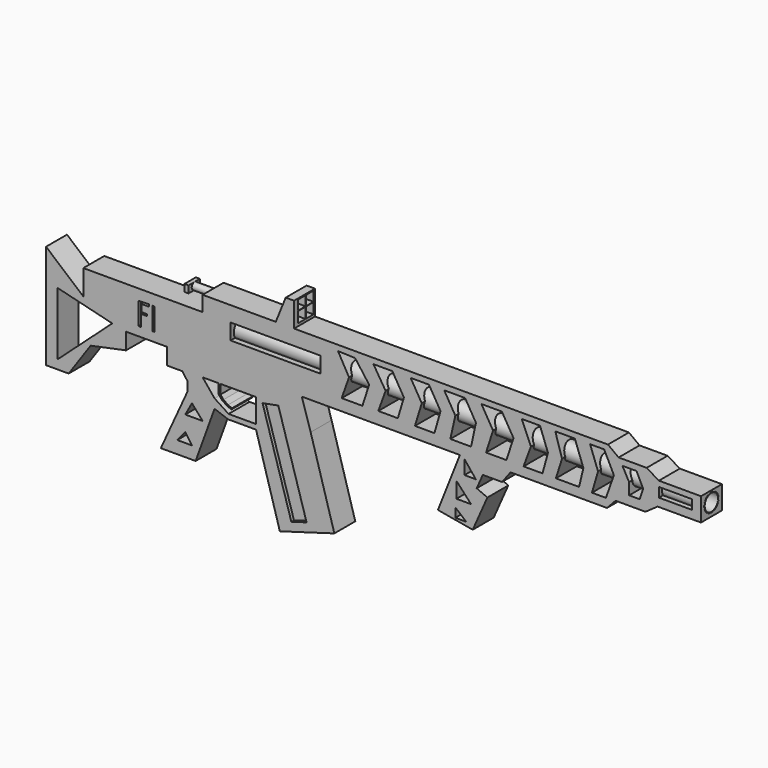
from build123d import *

# Parameters (mm, degrees)
F0_W      = 27.8707845137
F0_H      = 4.9295239151
F0_W_2    = 10.294675827
F0_H_2    = 2.9387567192
F1_DEPTH  = 7.62
F2_R      = 2.7869001014
F3_DEPTH  = 146.304
F4_R      = 2.7215920506
F5_DEPTH  = 146.812
F6_R      = 2.5871101407
F7_DEPTH  = 146.05
F8_W      = 12.5134121627
F8_H      = 7.62
F9_DEPTH  = 7.62
F11_DEPTH = 25.4
F12_W     = 2.8490580153
F12_H     = 3.3432543278
F12_W_2   = 2.8912199475
F13_DEPTH = 25.4
F15_DEPTH = 7.62
F16_R     = 1.0913724266
F17_DEPTH = 6.096
F18_W     = 4.4081342639
F18_H     = 2.1922178566
F19_DEPTH = 1.27
F20_R     = 0.7413997474
F20_W     = 1.235594973
F20_H     = 1.1558774859
F20_W_2   = 27.8707845137
F20_H_2   = 4.9295239151
F20_W_3   = 10.294675827
F20_H_3   = 2.9387567192
F21_DEPTH = 0.508
F22_W     = 0.6200680509
F22_H     = 7.0171430707
F23_DEPTH = 1.016
F25_DEPTH = 1.016
F27_DEPTH = 25.4


with BuildPart() as f1:
    # F0 (on Front) → F1 (new body)
    with BuildSketch(Plane.XZ):
        Polygon((-48.6316718161, 43.5125492513), (-48.6316718161, 33.2743003964), (-48.6316718161, 11.0914334655), (-41.6165776551, 11.0914334655), (-34.7910784185, 20.9504850209), (-23.7944442779, 23.225652054), (-23.7944442779, 28.3447746187), (-11.0914334655, 28.3447746187), (-11.0914334655, 23.225652054), (-6.3515044749, 23.225652054), (-4.6451305971, 20.9504850209), (-4.6451305971, 18.2961262763), (-12.987405993, 0), (-2.1803670097, 0), (3.6971447989, 16.2105560303), (7.9157597862, 14.68099965), (16.5897514671, 14.68099965), (23.984041065, -10.7122398913), (40.9133545003, -5.7825716609), (33.5538682998, 19.4911471348), (30.8095384389, 28.3447746187), (79.9152031541, 28.3447746187), (73.0896964669, 11.0914334655), (83.8967487216, 9.1954618692), (88.4470716119, 19.4911471348), (85.1451337201, 20.9504850209), (87.0329234017, 25.2218496862), (92.9974019527, 25.2218496862), (95.6517606974, 28.7239700556), (125.6081163883, 28.7239700556), (128.2624751329, 31.5679274499), (137.5527381897, 31.5679274499), (141.3446813822, 34.2222861946), (154.8060774803, 34.2222861946), (154.8060774803, 39.3414124846), (154.8060774803, 41.4269827306), (141.7238712311, 41.4269827306), (137.9319280386, 43.7021441758), (129.2104572058, 43.7021441758), (125.9241108265, 46.1669079959), (0, 46.1669079959), (0, 41.4269827306), (-37.0662435889, 41.4269827306), (-37.0662435889, 33.6534976959), align=None)
        Polygon((-7.8682806343, 3.8867425174), (-5.4035177454, 6.9202966988), (-3.3179481979, 3.8867425174), align=None, mode=Mode.SUBTRACT)
        Polygon((-5.4035177454, 11.6602256894), (-3.3179481979, 15.4521688819), (0, 11.6602256894), align=None, mode=Mode.SUBTRACT)
        Polygon((78.4932225943, 10.7112526894), (78.4932225943, 13.5561972857), (81.9070413709, 10.7112526894), align=None, mode=Mode.SUBTRACT)
        Polygon((8.0578783527, 16.2105560303), (3.6971447989, 19.0545152873), (0, 23.6048474908), (6.3515058719, 23.6048474908), (7.0829950273, 23.6048474908), (16.5897514671, 23.6048474908), (16.5897514671, 16.2105560303), align=None, mode=Mode.SUBTRACT)
        with Locations((22.6184898056, 38.9622170478)):
            Rectangle(F0_W, F0_H, mode=Mode.SUBTRACT)
        Polygon((45.4649440944, 38.3934266865), (42.0521944761, 44.4605313241), (47.360919416, 44.2709363997), (51.7216511071, 38.3934266865), (49.6360845864, 31.9471210241), (43.189778924, 31.9471210241), align=None, mode=Mode.SUBTRACT)
        Polygon((78.8340419531, 16.0209592432), (78.8340419531, 20.9504850209), (83.3843797445, 16.0209592432), align=None, mode=Mode.SUBTRACT)
        Polygon((81.3372582197, 23.3134049922), (81.3372582197, 27.6705306023), (84.8564729095, 23.3134049922), align=None, mode=Mode.SUBTRACT)
        Polygon((56.8407736719, 38.3934266865), (53.0488342047, 44.4605313241), (58.9263439178, 44.4605313241), (62.5286847353, 38.3934266865), (60.6327168643, 32.1367196739), (54.5656085014, 32.1367196739), align=None, mode=Mode.SUBTRACT)
        Polygon((68.0683460314, 38.6431169569), (64.6142587066, 44.4605313241), (70.3021734953, 44.4605313241), (73.9045143127, 38.3934266865), (72.0085501671, 31.7575223744), (65.9414380789, 31.7575223744), align=None, mode=Mode.SUBTRACT)
        Polygon((78.496191594, 38.6431202276), (75.0421062112, 44.4605313241), (81.5239570366, 44.4605313241), (84.9011540413, 38.7726165354), (83.3843797445, 31.7575223744), (76.9380778074, 31.7575223744), align=None, mode=Mode.SUBTRACT)
        Polygon((90.2098715305, 38.3934266865), (86.6075307131, 44.4605313241), (92.9573206473, 44.4605313241), (96.5596614648, 38.3934266865), (94.3810045719, 31.6593867384), (88.0312146377, 31.6593867384), align=None, mode=Mode.SUBTRACT)
        Polygon((105.5672466755, 31.6593867384), (99.6897369623, 31.6593867384), (101.9648984075, 37.8246344626), (99.1209372878, 44.4605313241), (104.8088520765, 44.4605313241), (107.2736233473, 37.8246344626), align=None, mode=Mode.SUBTRACT)
        Polygon((111.6343587637, 37.6350358129), (109.5487847924, 44.4605313241), (115.61588943, 44.4605313241), (118.2702556252, 37.2558422387), (116.9430762529, 31.6593867384), (109.7383797169, 31.6593867384), align=None, mode=Mode.SUBTRACT)
        Polygon((122.8205934167, 37.8246344626), (120.3558221459, 44.4605313241), (124.7165575624, 44.4605313241), (127.7501136065, 38.3934266865), (125.2853572369, 31.3783288002), (120.9246143699, 31.3783288002), align=None, mode=Mode.SUBTRACT)
        Polygon((132.4900388718, 38.014229387), (130.4044723511, 41.8061725795), (134.7652077675, 41.8061725795), (136.8507742882, 37.6350358129), (135.7763846006, 34.4118848443), (132.4900388718, 34.4118848443), align=None, mode=Mode.SUBTRACT)
        with Locations((146.8712091446, 38.2512276992)):
            Rectangle(F0_W_2, F0_H_2, mode=Mode.SUBTRACT)
    extrude(amount=F1_DEPTH)

    # F2 (on face) → F3 (cut)
    with BuildSketch(Plane.YZ.offset(154.8060774803)):
        with Locations((-4.09772899, 38.114476949)):
            Circle(F2_R)
    extrude(amount=-F3_DEPTH, mode=Mode.SUBTRACT)

    # F4 (on face) → F5 (join)
    with BuildSketch(Plane.YZ.offset(154.8060774803)):
        with Locations((-4.09772899, 38.114476949)):
            Circle(F4_R)
    extrude(amount=-F5_DEPTH)

    # F6 (on face) → F7 (cut)
    with BuildSketch(Plane.YZ.offset(154.8060774803)):
        with Locations((-4.09772899, 38.114476949)):
            Circle(F6_R)
    extrude(amount=-F7_DEPTH, mode=Mode.SUBTRACT)

    # F8 (on face) → F9 (join)
    with BuildSketch(Plane.XY.offset(46.1669079959)):
        with Locations((22.1444955096, -3.81)):
            Rectangle(F8_W, F8_H)
    extrude(amount=F9_DEPTH)

    # F10 (on face) → F11 (cut)
    with BuildSketch(Plane.XZ.offset(7.62)):
        Polygon((15.8877894282, 53.7869079959), (15.8877894282, 46.1669079959), (22.7196309716, 46.1669079959), (25.8005857468, 53.7869079959), align=None)
    extrude(amount=-F11_DEPTH, mode=Mode.SUBTRACT)

    # F12 (on face) → F13 (cut)
    with BuildSketch(Plane.YZ.offset(28.4012015909)):
        Polygon((-3.6669506226, 53.4713178125), (-6.5109077841, 53.4553974867), (-6.5109077841, 50.4455417395), (-3.6669506226, 50.4455417395), align=None)
        Polygon((-0.5861331895, 53.4715823872), (-3.477353137, 53.4553974867), (-3.477353137, 50.429356839), (-0.5861331895, 50.4455417395), align=None)
        with Locations((-5.0914796302, 48.6494787037)):
            Rectangle(F12_W, F12_H)
        with Locations((-2.0317431633, 48.6494787037)):
            Rectangle(F12_W_2, F12_H)
    extrude(amount=-F13_DEPTH, mode=Mode.SUBTRACT)

    # F14 (on face) → F15 (join)
    with BuildSketch(Plane.XZ.offset(7.62)):
        Polygon((4.9706748687, 23.9122640342), (4.9371584319, 20.6433010495), (6.009681616, 19.3205233663), (7.6184668578, 18.2479992509), (8.9591210708, 17.7117362618), (9.1209249, 18.1162448512), (7.8669508882, 18.6178356755), (6.4789108001, 19.5886529982), (5.5404528975, 20.6946935505), (5.5404528975, 23.9122640342), align=None)
    extrude(amount=-F15_DEPTH)

    # F16 (on face) → F17 (join)
    with BuildSketch(Plane(origin=(0, 0, 0), x_dir=(0, -1, 0), z_dir=(-1, 0, 0))):
        with Locations((3.6567260977, 44.8060594499)):
            Circle(F16_R)
    extrude(amount=F17_DEPTH)

    # F18 (on face) → F19 (join)
    with BuildSketch(Plane(origin=(-6.096, 0, 0), x_dir=(0, -1, 0), z_dir=(-1, 0, 0))):
        with Locations((3.7773870281, 44.7852406651)):
            Rectangle(F18_W, F18_H)
    extrude(amount=F19_DEPTH)

    # F20 (on face) → F21 (join)
    with BuildSketch(Plane.XZ.offset(7.62)):
        Polygon((137.9319280386, 43.7021441758), (129.2104572058, 43.7021441758), (125.9241108265, 46.1669079959), (28.4012015909, 46.1669079959), (28.4012015909, 53.7869079959), (25.8005857468, 53.7869079959), (22.7196309716, 46.1669079959), (0, 46.1669079959), (0, 41.4269827306), (-37.0662435889, 41.4269827306), (-37.0662435889, 33.6534976959), (-48.6316718161, 43.5125492513), (-48.6316718161, 11.0914334655), (-41.6165776551, 11.0914334655), (-34.7910784185, 20.9504850209), (-23.7944442779, 23.225652054), (-23.7944442779, 28.3447746187), (-11.0914334655, 28.3447746187), (-11.0914334655, 23.225652054), (-6.3515044749, 23.225652054), (-4.6451305971, 20.9504850209), (-4.6451305971, 18.2961262763), (-12.987405993, 0), (-2.1803670097, 0), (3.6971447989, 16.2105560303), (7.9157597862, 14.68099965), (16.5897514671, 14.68099965), (23.984041065, -10.7122398913), (40.9133545003, -5.7825716609), (33.5538682998, 19.4911471348), (30.8095384389, 28.3447746187), (79.9152031541, 28.3447746187), (73.0896964669, 11.0914334655), (83.8967487216, 9.1954618692), (88.4470716119, 19.4911471348), (85.1451337201, 20.9504850209), (87.0329234017, 25.2218496862), (92.9974019527, 25.2218496862), (95.6517606974, 28.7239700556), (125.6081163883, 28.7239700556), (128.2624751329, 31.5679274499), (137.5527381897, 31.5679274499), (141.3446813822, 34.2222861946), (154.8060774803, 34.2222861946), (154.8060774803, 41.4269827306), (141.7238712311, 41.4269827306), align=None)
        Polygon((-3.3179481979, 3.8867425174), (-7.8682806343, 3.8867425174), (-5.4035177454, 6.9202966988), align=None, mode=Mode.SUBTRACT)
        Polygon((0, 11.6602256894), (-5.4035177454, 11.6602256894), (-3.3179481979, 15.4521688819), align=None, mode=Mode.SUBTRACT)
        Polygon((16.5897514671, 23.6048474908), (16.5897514671, 16.2105560303), (8.0578783527, 16.2105560303), (3.6971447989, 19.0545152873), (0, 23.6048474908), (4.9675229495, 23.6048474908), (4.9371584319, 20.6433010495), (6.009681616, 19.3205233663), (7.6184668578, 18.2479992509), (8.9591210708, 17.7117362618), (9.1209249, 18.1162448512), (7.8669508882, 18.6178356755), (6.4789108001, 19.5886529982), (5.5404528975, 20.6946935505), (5.5404528975, 23.6048474908), align=None, mode=Mode.SUBTRACT)
        Polygon((81.9070413709, 10.7112526894), (78.4932225943, 10.7112526894), (78.4932225943, 13.5561972857), align=None, mode=Mode.SUBTRACT)
        Polygon((83.3843797445, 16.0209592432), (78.8340419531, 16.0209592432), (78.8340419531, 20.9504850209), align=None, mode=Mode.SUBTRACT)
        with Locations((1.7752329586, 30.8259725571)):
            Circle(F20_R, mode=Mode.SUBTRACT)
        with Locations((5.5418037809, 29.9291694537)):
            Rectangle(F20_W, F20_H, mode=Mode.SUBTRACT)
        Polygon((4.2065642774, 31.5035581589), (5.4820170626, 33.5363075137), (6.2591202809, 33.1854807295), (4.9220934459, 31.0545979028), align=None, mode=Mode.SUBTRACT)
        with Locations((22.6184898056, 38.9622170478)):
            Rectangle(F20_W_2, F20_H_2, mode=Mode.SUBTRACT)
        Polygon((43.189778924, 31.9471210241), (45.4649440944, 38.3934266865), (42.0521944761, 44.4605313241), (47.360919416, 44.2709363997), (51.7216511071, 38.3934266865), (49.6360845864, 31.9471210241), align=None, mode=Mode.SUBTRACT)
        Polygon((84.8564729095, 23.3134049922), (81.3372582197, 23.3134049922), (81.3372582197, 27.6705306023), align=None, mode=Mode.SUBTRACT)
        Polygon((54.5656085014, 32.1367196739), (56.8407736719, 38.3934266865), (53.0488342047, 44.4605313241), (58.9263439178, 44.4605313241), (62.5286847353, 38.3934266865), (60.6327168643, 32.1367196739), align=None, mode=Mode.SUBTRACT)
        Polygon((65.9414380789, 31.7575223744), (68.0683460314, 38.6431169569), (64.6142587066, 44.4605313241), (70.3021734953, 44.4605313241), (73.9045143127, 38.3934266865), (72.0085501671, 31.7575223744), align=None, mode=Mode.SUBTRACT)
        Polygon((76.9380778074, 31.7575223744), (78.496191594, 38.6431202276), (75.0421062112, 44.4605313241), (81.5239570366, 44.4605313241), (84.9011540413, 38.7726165354), (83.3843797445, 31.7575223744), align=None, mode=Mode.SUBTRACT)
        Polygon((88.0312146377, 31.6593867384), (90.2098715305, 38.3934266865), (86.6075307131, 44.4605313241), (92.9573206473, 44.4605313241), (96.5596614648, 38.3934266865), (94.3810045719, 31.6593867384), align=None, mode=Mode.SUBTRACT)
        Polygon((107.2736233473, 37.8246344626), (105.5672466755, 31.6593867384), (99.6897369623, 31.6593867384), (101.9648984075, 37.8246344626), (99.1209372878, 44.4605313241), (104.8088520765, 44.4605313241), align=None, mode=Mode.SUBTRACT)
        Polygon((109.7383797169, 31.6593867384), (111.6343587637, 37.6350358129), (109.5487847924, 44.4605313241), (115.61588943, 44.4605313241), (118.2702556252, 37.2558422387), (116.9430762529, 31.6593867384), align=None, mode=Mode.SUBTRACT)
        Polygon((120.9246143699, 31.3783288002), (122.8205934167, 37.8246344626), (120.3558221459, 44.4605313241), (124.7165575624, 44.4605313241), (127.7501136065, 38.3934266865), (125.2853572369, 31.3783288002), align=None, mode=Mode.SUBTRACT)
        Polygon((132.4900388718, 34.4118848443), (132.4900388718, 38.014229387), (130.4044723511, 41.8061725795), (134.7652077675, 41.8061725795), (136.8507742882, 37.6350358129), (135.7763846006, 34.4118848443), align=None, mode=Mode.SUBTRACT)
        with Locations((146.8712091446, 38.2512276992)):
            Rectangle(F20_W_3, F20_H_3, mode=Mode.SUBTRACT)
        Polygon((6.2591202809, 33.1854807295), (5.4820170626, 33.5363075137), (4.2065642774, 31.5035581589), (4.9220934459, 31.0545979028), align=None)
        with Locations((1.7752329586, 30.8259725571)):
            Circle(F20_R)
        with Locations((5.5418037809, 29.9291694537)):
            Rectangle(F20_W, F20_H)
    extrude(amount=F21_DEPTH)

    # F22 (on face) → F23 (cut)
    with BuildSketch(Plane.XZ.offset(8.128)):
        Polygon((-16.6205428541, 38.1412953138), (-19.8878142983, 38.0594246089), (-19.8878142983, 31.1241522431), (-19.0906561911, 31.1241522431), (-19.0906561911, 34.7113646567), (-17.3369087279, 34.7113646567), (-17.3369087279, 35.271525383), (-18.972158432, 35.271525383), (-18.972158432, 37.4836400151), (-16.6205428541, 37.4836400151), align=None)
        with Locations((-15.2300628833, 34.6327237785)):
            Rectangle(F22_W, F22_H)
    extrude(amount=-F23_DEPTH, mode=Mode.SUBTRACT)

    # F24 (on face) → F25 (cut)
    with BuildSketch(Plane.XZ.offset(8.128)):
        Polygon((23.507418111, 23.5311519355), (18.6138320714, 22.5926935673), (27.5688513176, -6.9858683827), (32.28905797, -5.561048165), align=None)
    extrude(amount=-F25_DEPTH, mode=Mode.SUBTRACT)

    # F26 (on face) → F27 (cut)
    with BuildSketch(Plane.XZ.offset(8.128)):
        Polygon((-28.0649326742, 29.2170811445), (-45.0322553515, 33.3882793784), (-45.0322553515, 13.8851003721), align=None)
    extrude(amount=-F27_DEPTH, mode=Mode.SUBTRACT)


solid = f1.part
